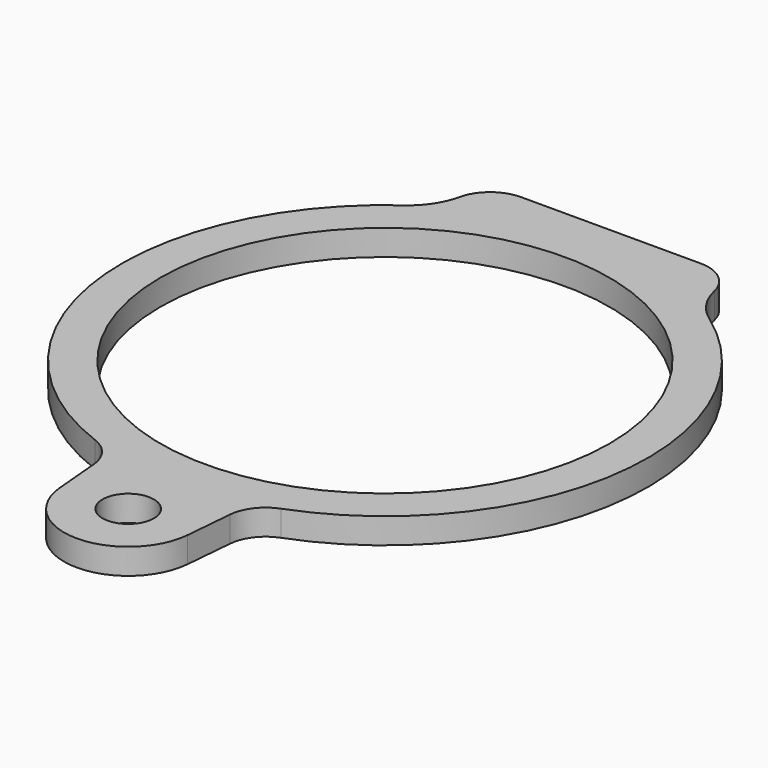
from build123d import *

# Parameters (mm, degrees)
F0_R     = 2
F0_R_2   = 17.5
F1_DEPTH = 2
F2_R     = 3
F3_R     = 5


with BuildPart() as f1:
    # F0 (on Top) → F1 (new body)
    with BuildSketch(Plane.XY):
        with BuildLine():
            Line((-10, 22), (-10, 17.89553))
            ThreePointArc((-10, 17.89553), (-20.353721, -2.444595), (-5.478019, -19.754526))
            Line((-5.478019, -19.754526), (-4.980973, -25.435779))
            ThreePointArc((-4.980973, -25.435779), (0, -30), (4.980973, -25.435779))
            Line((4.980973, -25.435779), (5.478019, -19.754526))
            ThreePointArc((5.478019, -19.754526), (20.353721, -2.444595), (10, 17.89553))
            Line((10, 17.89553), (10, 22))
            Line((10, 22), (-10, 22))
        make_face()
        with Locations((0, -25)):
            Circle(F0_R, mode=Mode.SUBTRACT)
        Circle(F0_R_2, mode=Mode.SUBTRACT)
    extrude(amount=F1_DEPTH)

    # F2
    f2_edges = [f1.edges().sort_by_distance(p)[0] for p in [
        (-10, 22, 1),
        (10, 22, 1),
        (-5.478019, -19.754526, 1),
        (5.478019, -19.754526, 1),
    ]]
    fillet(f2_edges, radius=F2_R)

    # F3
    f3_edges = [f1.edges().sort_by_distance(p)[0] for p in [
        (-10, 17.89553, 1),
        (10, 17.89553, 1),
    ]]
    fillet(f3_edges, radius=F3_R)


solid = f1.part
